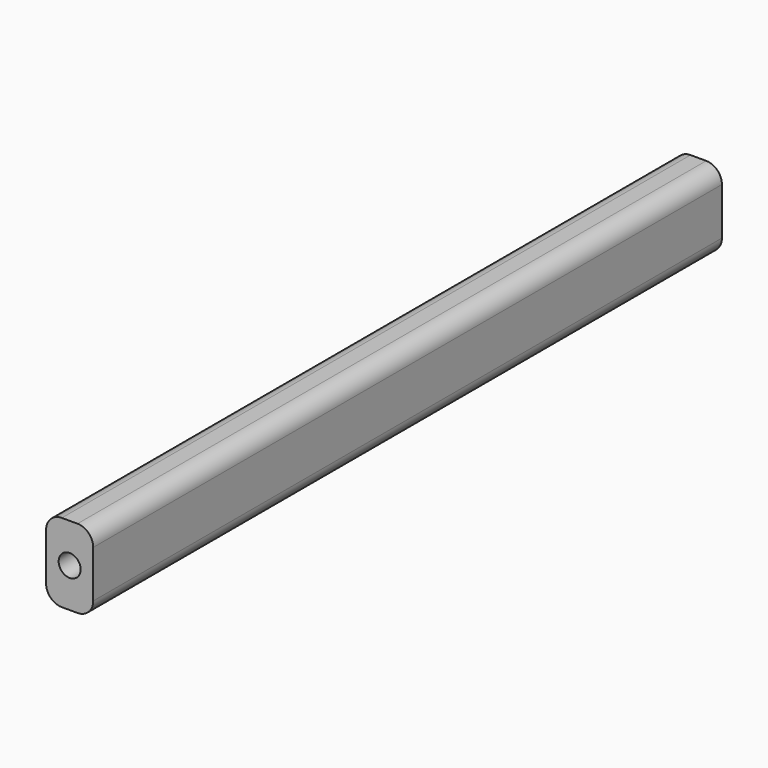
from build123d import *

# Parameters (mm, degrees)
F0_W     = 75
F0_H     = 125
F1_DEPTH = 625
F2_R     = 17.5
F3_DEPTH = 1250
F4_R     = 25


with BuildPart() as f1:
    # F0 (on Front) → F1 (new body, symmetric)
    with BuildSketch(Plane.XZ):
        Rectangle(F0_W, F0_H)
    extrude(amount=F1_DEPTH, both=True)

    # F2 (on face) → F3 (cut)
    with BuildSketch(Plane.XZ.offset(625)):
        Circle(F2_R)
    extrude(amount=-F3_DEPTH, mode=Mode.SUBTRACT)

    # F4
    f4_edges = [f1.edges().sort_by_distance(p)[0] for p in [
        (37.5, 0, 62.5),
        (-37.5, 0, 62.5),
        (-37.5, 0, -62.5),
        (37.5, 0, -62.5),
    ]]
    fillet(f4_edges, radius=F4_R)


solid = f1.part
